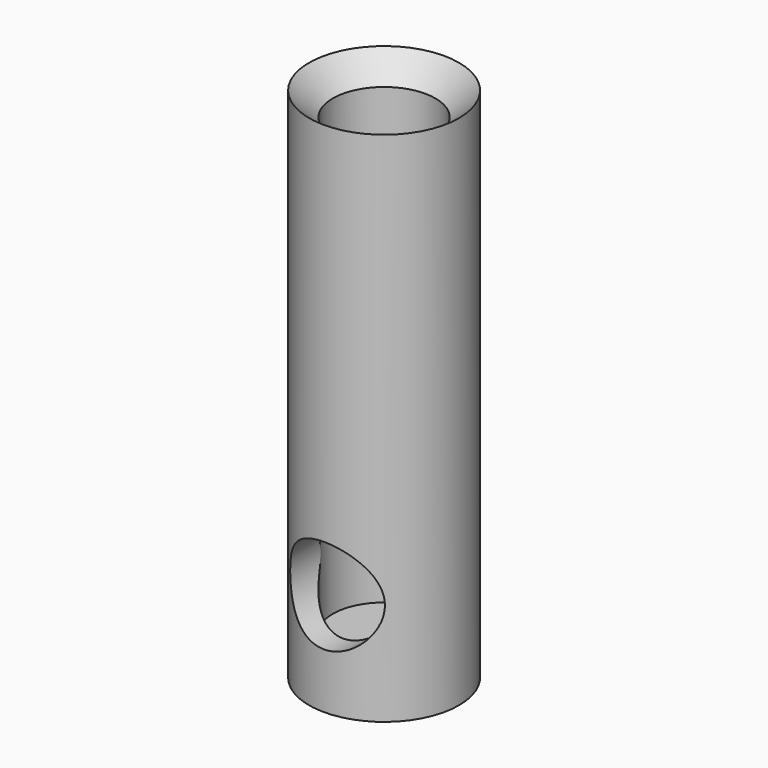
from build123d import *

# Parameters (mm, degrees)
F2_D     = 12
F2_DEPTH = 9.501


with BuildPart() as f1:
    # F0 (on Front) → F1 (revolve)
    with BuildSketch(Plane.XZ):
        Polygon((0, -19.9032288051), (0, -24.9032288051), (9.5, -24.9032288051), (9.5, 40.5967711949), (6.5, 37.5967711949), (6.5, -19.9032288051), align=None)
    revolve(axis=Axis((0, 0, -22.4032288051), (0, 0, -1)))

    # F2 (through all, one way)
    with BuildSketch(Plane(origin=(0, 0, 0), x_dir=(1, 0, 0), z_dir=(0, 1, 0))):
        with Locations((0, 11.9032288051)):
            Circle(F2_D / 2)
    extrude(amount=-F2_DEPTH, mode=Mode.SUBTRACT)


solid = f1.part
